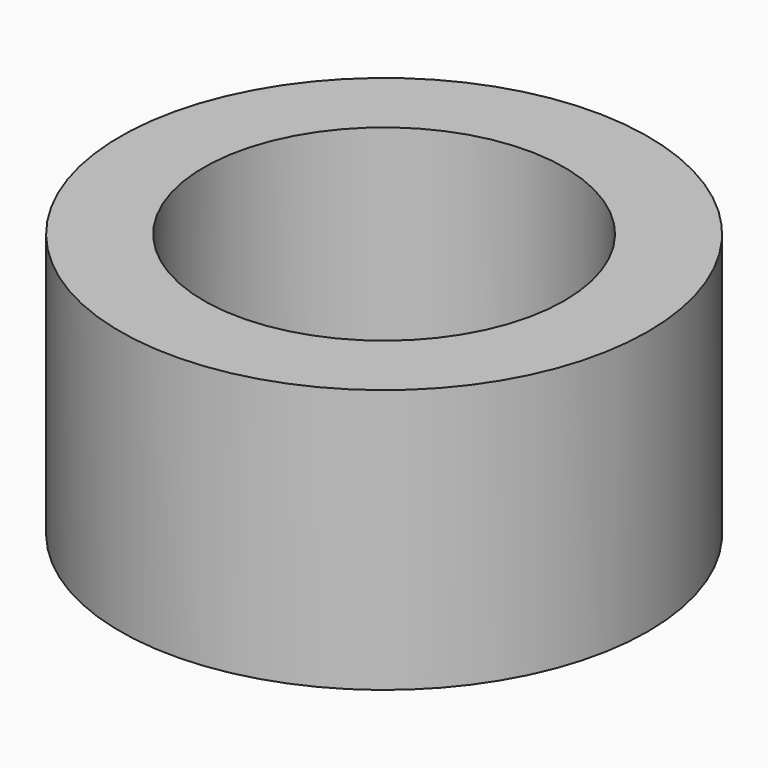
from build123d import *

# Parameters (mm, degrees)
CYLINDER001_R     = 4.1
CYLINDER001_DEPTH = 6
CYLINDER_R        = 6
CYLINDER_DEPTH    = 6


with BuildPart() as inner:
    # Cylinder001 → Cylinder001 (new body)
    with BuildSketch(Plane.XY):
        Circle(CYLINDER001_R)
    extrude(amount=CYLINDER001_DEPTH)


with BuildPart() as cut:
    # Cylinder → Cylinder (new body)
    with BuildSketch(Plane.XY):
        Circle(CYLINDER_R)
    extrude(amount=CYLINDER_DEPTH)

    # Cut: cut Inner
    add(inner.part, mode=Mode.SUBTRACT)


solid = cut.part
